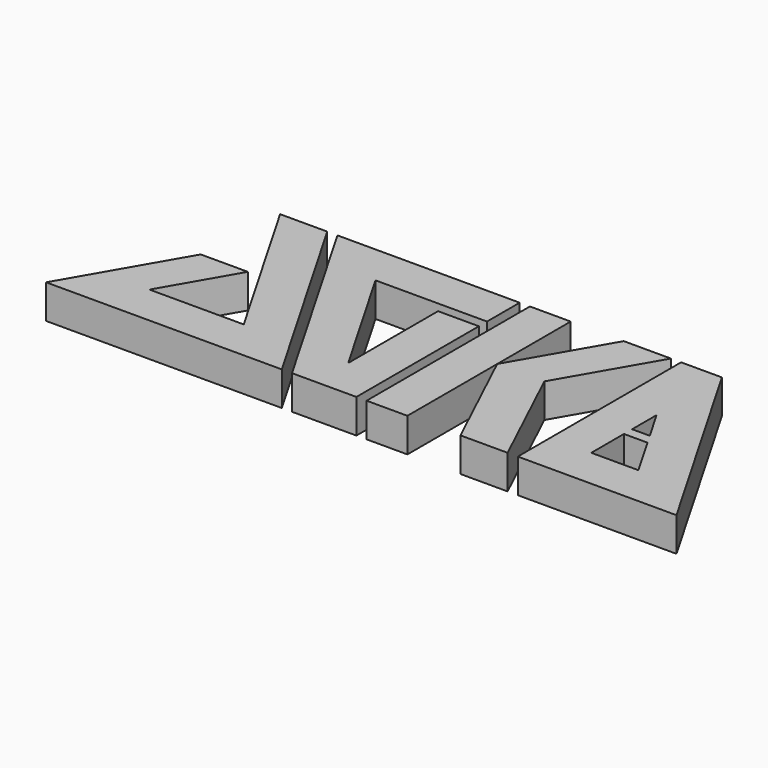
from build123d import *

# Parameters (mm, degrees)
F1_DEPTH = 1


with BuildPart() as f1:
    # F0 (on Top) → F1 (new body)
    with BuildSketch(Plane.XY):
        Polygon((-5.656922, 6), (-7.042563, 6), (-4.271281, 1.2), (-7.042563, 1.2), (-5.830127, 3.3), (-7.215768, 3.3), (-9.121024, 0), (-2.19282, 0), align=None)
        Polygon((0, 6), (-5.356922, 6), (-1.89282, 0), (0, 0), (0, 4.5), (-1.2, 4.5), (-1.2, 1.2), (-3.278461, 4.8), (0, 4.8), align=None)
        Polygon((1.5, 6), (0.3, 6), (0.3, 0), (1.5, 0), (1.5, 3.3), align=None)
        Polygon((3.058846, 6), (1.5, 3.3), (3.058846, 0), (4.444486, 0), (2.885641, 3.3), (4.444486, 6), align=None)
        Polygon((5.944486, 6), (4.744486, 6), (4.744486, 0), (9.408588, 0), align=None)
        Polygon((5.944486, 1.2), (5.944486, 2.4), (6.637307, 2.4), (7.330127, 1.2), align=None, mode=Mode.SUBTRACT)
        Polygon((5.944486, 2.7), (5.944486, 3.6), (6.464102, 2.7), align=None, mode=Mode.SUBTRACT)
    extrude(amount=F1_DEPTH)


solid = f1.part
